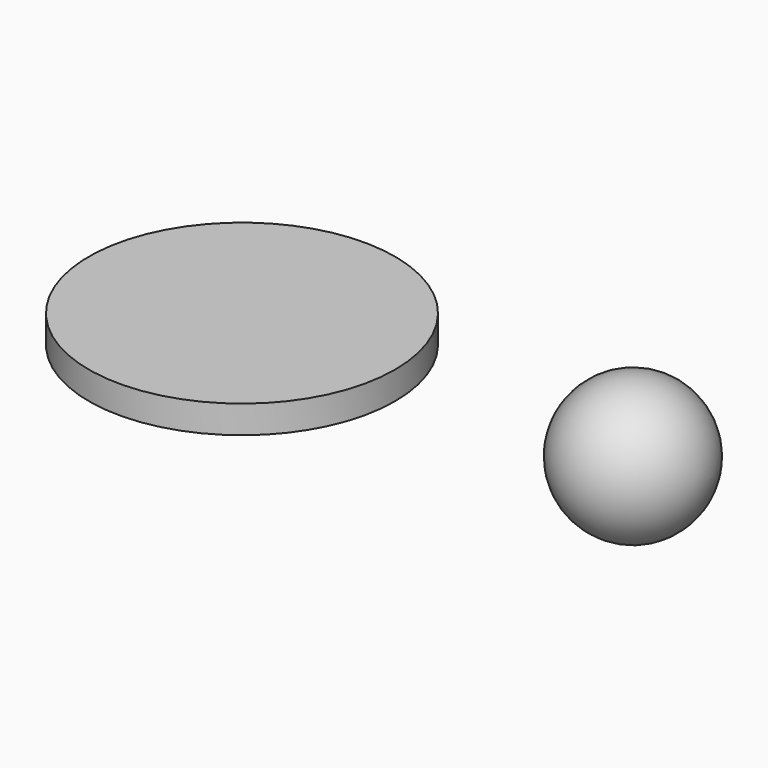
from build123d import *

# Parameters (mm, degrees)
F0_R     = 139.7
F1_DEPTH = 25.4


with BuildPart() as f1:
    # F0 (on Top) → F1 (new body)
    with BuildSketch(Plane.XY):
        with Locations((-44.839293, 35.383981)):
            Circle(F0_R)
    extrude(amount=F1_DEPTH)


with BuildPart() as f3:
    # F2 (on Top) → F3 (revolve)
    with BuildSketch(Plane.XY):
        with BuildLine():
            Line((216.730641, 74.957076), (343.730641, 74.957076))
            ThreePointArc((343.730641, 74.957076), (280.230641, 138.457076), (216.730641, 74.957076))
        make_face()
    revolve(axis=Axis((280.230641, 74.957076, 0), (1, 0, 0)))


solid = Compound([f1.part, f3.part])
